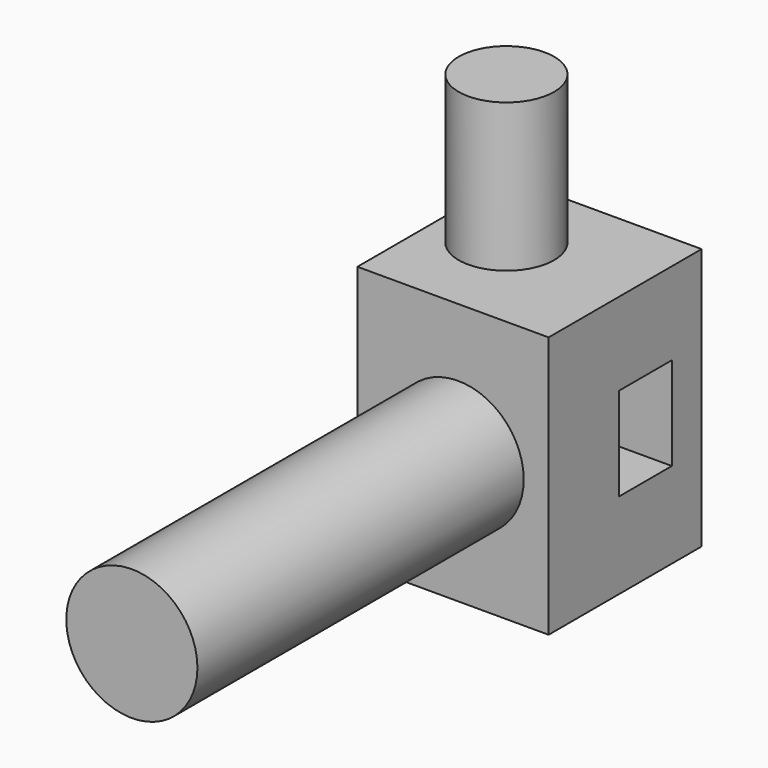
from build123d import *

# Parameters (mm, degrees)
F0_W     = 63.5
F0_H     = 86.9489126992
F1_DEPTH = 63.5
F2_R     = 15.8444471424
F3_DEPTH = 49.1919759661
F4_W     = 21.8449309468
F4_H     = 30.9254080057
F5_DEPTH = 51.2255001813
F6_R     = 21.7743168909
F7_DEPTH = 135.4503948241


with BuildPart() as f1:
    # F0 (on Front) → F1 (new body)
    with BuildSketch(Plane.XZ):
        with Locations((31.75, 43.4744563496)):
            Rectangle(F0_W, F0_H)
    extrude(amount=F1_DEPTH)

    # F2 (on face) → F3 (join)
    with BuildSketch(Plane.XY.offset(86.9489126992)):
        with Locations((21.6802954674, -28.7499539554)):
            Circle(F2_R)
    extrude(amount=F3_DEPTH)

    # F4 (on face) → F5 (cut)
    with BuildSketch(Plane.YZ.offset(63.5)):
        with Locations((-23.2634544373, 44.0129265189)):
            Rectangle(F4_W, F4_H)
        with Locations((-23.2634544373, 44.0129265189)):
            Rectangle(F4_W, F4_H)
    extrude(amount=-F5_DEPTH, mode=Mode.SUBTRACT)

    # F6 (on face) → F7 (join)
    with BuildSketch(Plane.XZ.offset(63.5)):
        with Locations((33.4522090852, 42.7022464573)):
            Circle(F6_R)
    extrude(amount=F7_DEPTH)


solid = f1.part
